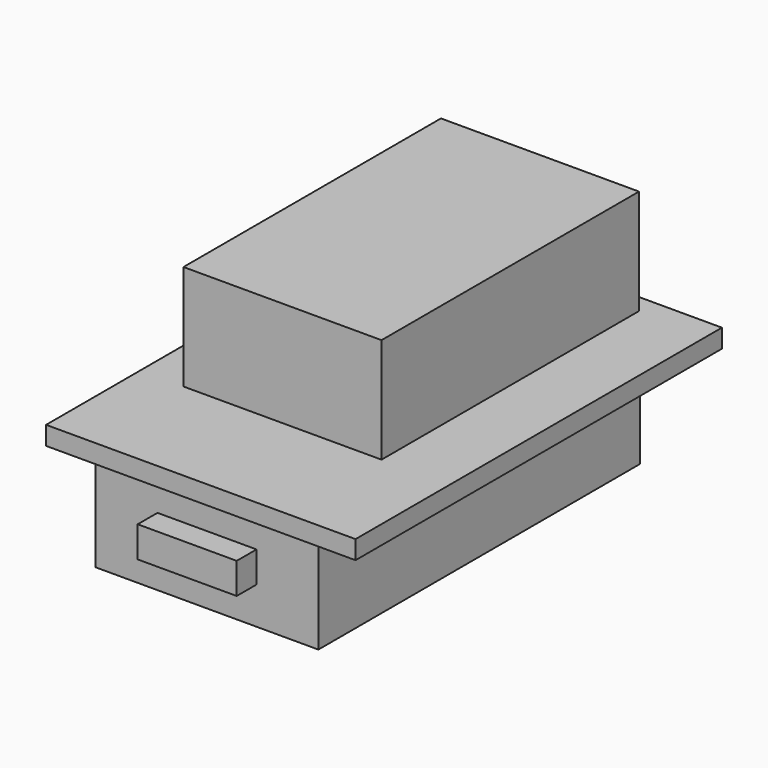
from build123d import *

# Parameters (mm, degrees)
SKETCH_W             = 25
SKETCH_H             = 37
PAD_DEPTH            = 1.5
SKETCH001_W          = 16
SKETCH001_H          = 26
PAD001_DEPTH         = 8.5
SKETCH002_W          = 18
SKETCH002_H          = 32.5
PAD002_DEPTH         = 9
SKETCH003_W          = 8
SKETCH003_H          = 2.5
PAD003_DEPTH         = 2
BODY_PITCH_ANGLE     = 90
BODY_PLACEMENT_ANGLE = -90


with BuildPart() as part:
    # Sketch → Pad (new body)
    with BuildSketch(Plane.YZ):
        with Locations((4.273874, -1.909899)):
            Rectangle(SKETCH_W, SKETCH_H)
    extrude(amount=PAD_DEPTH)

    # Sketch001 (on Face5 of Pad) → Pad001 (join)
    with BuildSketch(Plane(origin=(0, 0, 0), x_dir=(0, 1, 0), z_dir=(-1, 0, 0))):
        with Locations((3.273874, 5.909899)):
            Rectangle(SKETCH001_W, SKETCH001_H)
    extrude(amount=PAD001_DEPTH)

    # Sketch002 (on Face5 of Pad001) → Pad002 (join)
    with BuildSketch(Plane.YZ.offset(1.5)):
        with Locations((2.773874, -2.159899)):
            Rectangle(SKETCH002_W, SKETCH002_H)
    extrude(amount=PAD002_DEPTH)

    # Sketch003 (on Face14 of Pad002) → Pad003 (join)
    with BuildSketch(Plane(origin=(0, 0, 14.090101), x_dir=(0, -1, 0), z_dir=(0, 0, 1))):
        with Locations((-2.773874, 6.25)):
            Rectangle(SKETCH003_W, SKETCH003_H)
    extrude(amount=PAD003_DEPTH)


with BuildPart() as part_1:
    # Body pitch: moved
    add(part.part.rotate(Axis((0, 0, 0), (0, 1, 0)), BODY_PITCH_ANGLE))


with BuildPart() as part_2:
    # Body placement: moved
    add(part_1.part.moved(Location((7.68397, -0.0001, 3.86387))).rotate(Axis((7.68397, -0.0001, 3.86387), (0, 0, 1)), BODY_PLACEMENT_ANGLE))


solid = part_2.part
